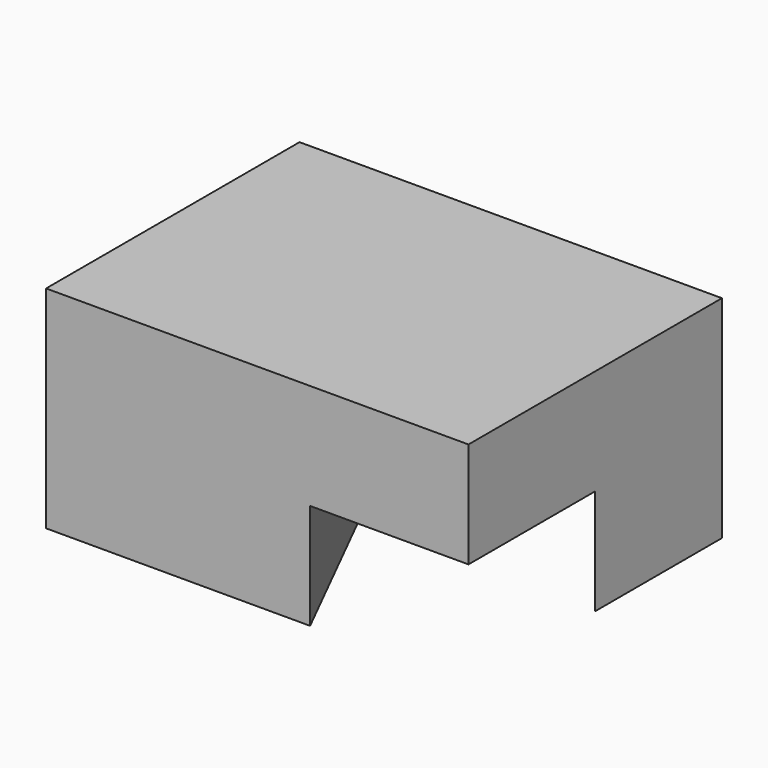
from build123d import *

# Parameters (mm, degrees)
F0_W     = 101.6
F0_H     = 25.4
F1_DEPTH = 76.2
F3_DEPTH = 25.4
F5_DEPTH = 25.4


with BuildPart() as f1:
    # F0 (on Front) → F1 (new body)
    with BuildSketch(Plane.XZ):
        with Locations((4.17847, -23.908158)):
            Rectangle(F0_W, F0_H)
        with Locations((4.17847, -23.908158)):
            Rectangle(F0_W, F0_H)
    extrude(amount=F1_DEPTH)

    # F2 (on face) → F3 (join)
    with BuildSketch(Plane(origin=(0, 0, -36.608158), x_dir=(1, 0, 0), z_dir=(0, 0, -1))):
        Polygon((29.57847, 0), (54.97847, 0), (54.97847, 38.1), align=None)
    extrude(amount=F3_DEPTH)

    # F4 (on face) → F5 (join)
    with BuildSketch(Plane(origin=(0, 0, -36.608158), x_dir=(1, 0, 0), z_dir=(0, 0, -1))):
        Polygon((-46.62153, 76.2), (-46.62153, 0), (-21.22153, 0), (16.87847, 76.2), align=None)
    extrude(amount=F5_DEPTH)


solid = f1.part
